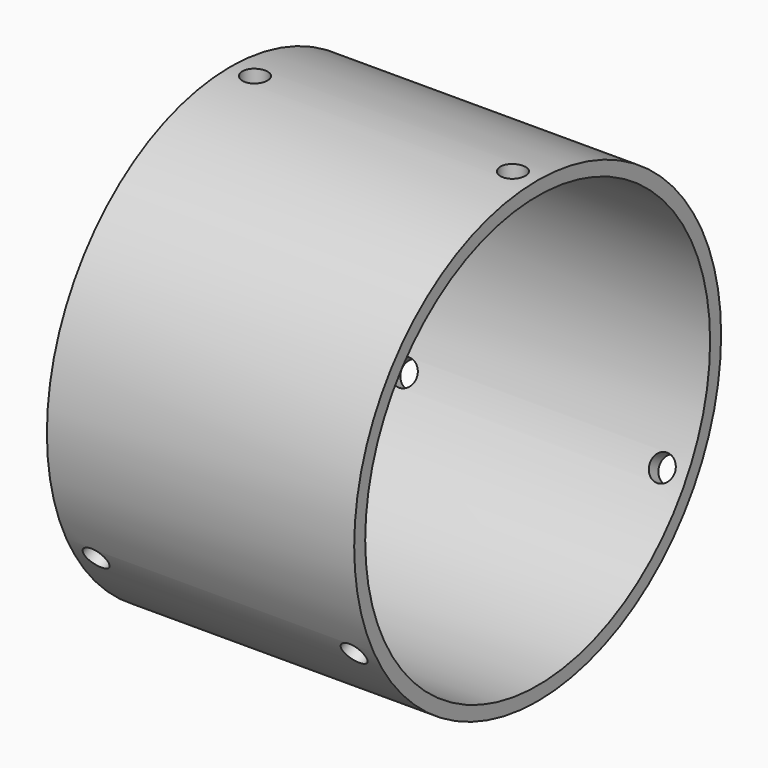
from build123d import *

# Parameters (mm, degrees)
F0_R     = 50.8
F0_R_2   = 47.752
F1_DEPTH = 34.036
F3_R     = 2.778125
F4_DEPTH = 12.7
F6_COUNT = 3
F6_ANGLE = 240


with BuildPart() as f1:
    # F0 (on Right) → F1 (new body, symmetric)
    with BuildSketch(Plane.YZ):
        Circle(F0_R)
        Circle(F0_R_2, mode=Mode.SUBTRACT)
    extrude(amount=F1_DEPTH, both=True)


with BuildPart() as f4:
    # F3 (on offset) → F4 (new body, symmetric)
    with BuildSketch(Plane.XY.offset(50.8)):
        with Locations((-28.575, 0)):
            Circle(F3_R)
        with Locations((28.575, 0)):
            Circle(F3_R)
    extrude(amount=F4_DEPTH, both=True)


with BuildPart() as f6_1:
    # F6: instance of F4
    add(f4.part.rotate(Axis((2.265271, 0, 0), (1, 0, 0)), 1 * F6_ANGLE / (F6_COUNT - 1)))


with BuildPart() as f6_2:
    # F6: instance of F4
    add(f4.part.rotate(Axis((2.265271, 0, 0), (1, 0, 0)), 2 * F6_ANGLE / (F6_COUNT - 1)))


with BuildPart() as f1_1:
    add(f1.part)

    # F7: cut F4, F6_2, F6_1
    add(f4.part, mode=Mode.SUBTRACT)
    add(f6_2.part, mode=Mode.SUBTRACT)
    add(f6_1.part, mode=Mode.SUBTRACT)


solid = f1_1.part
